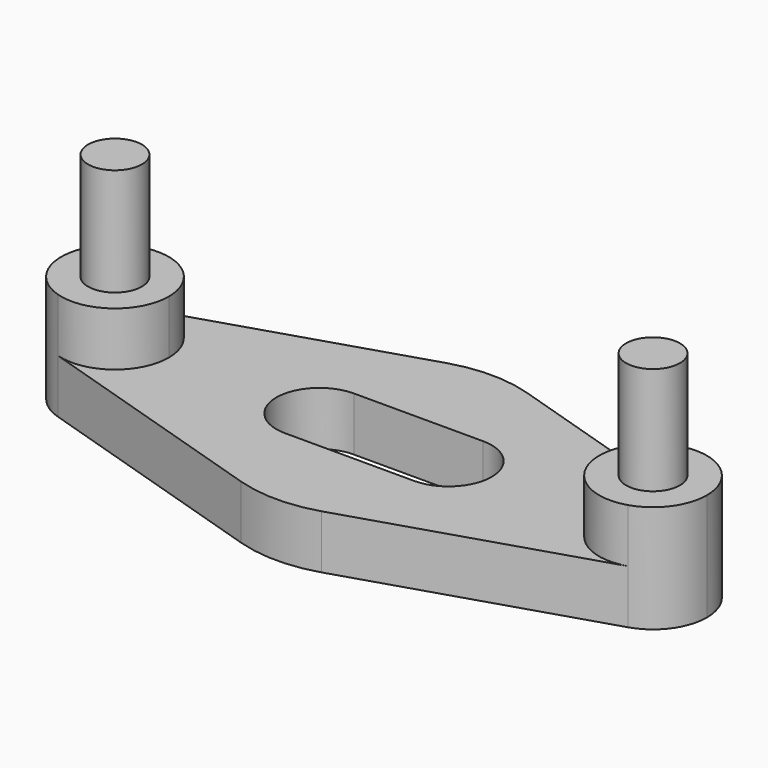
from build123d import *

# Parameters (mm, degrees)
F0_R     = 5
F1_DEPTH = 20
F2_DEPTH = 40
F3_DEPTH = 10


with BuildPart() as f1:
    # F0 (on Top) → F1 (new body)
    with BuildSketch(Plane.XY):
        with BuildLine():
            ThreePointArc((-53, 9.539392), (-60, 0), (-53, -9.539392))
            ThreePointArc((-53, -9.539392), (-44.08392, -8.062258), (-40, 0))
            ThreePointArc((-40, 0), (-44.08392, 8.062258), (-53, 9.539392))
        make_face()
        with Locations((-50, 0)):
            Circle(F0_R, mode=Mode.SUBTRACT)
        with BuildLine():
            ThreePointArc((53, 9.539392), (40, 0), (53, -9.539392))
            ThreePointArc((53, -9.539392), (58.062258, -5.91608), (60, 0))
            ThreePointArc((60, 0), (58.062258, 5.91608), (53, 9.539392))
        make_face()
        with Locations((50, 0)):
            Circle(F0_R, mode=Mode.SUBTRACT)
    extrude(amount=F1_DEPTH)


with BuildPart() as f2:
    # F0 (on Top) → F2 (new body)
    with BuildSketch(Plane.XY):
        with Locations((-50, 0)):
            Circle(F0_R)
        with Locations((50, 0)):
            Circle(F0_R)
    extrude(amount=F2_DEPTH)


with BuildPart() as f3:
    # F0 (on Top) → F3 (new body)
    with BuildSketch(Plane.XY):
        with BuildLine():
            Line((-53, -9.539392), (-7.5, -23.84848))
            ThreePointArc((-7.5, -23.84848), (0, -25), (7.5, -23.84848))
            Line((7.5, -23.84848), (53, -9.539392))
            ThreePointArc((53, -9.539392), (40, 0), (53, 9.539392))
            Line((53, 9.539392), (7.5, 23.84848))
            ThreePointArc((7.5, 23.84848), (0, 25), (-7.5, 23.84848))
            Line((-7.5, 23.84848), (-53, 9.539392))
            ThreePointArc((-53, 9.539392), (-44.08392, 8.062258), (-40, 0))
            ThreePointArc((-40, 0), (-44.08392, -8.062258), (-53, -9.539392))
        make_face()
        with BuildLine():
            ThreePointArc((-12, -8), (-20, 0), (-12, 8))
            Line((-12, 8), (12, 8))
            ThreePointArc((12, 8), (20, 0), (12, -8))
            Line((12, -8), (-12, -8))
        make_face(mode=Mode.SUBTRACT)
    extrude(amount=F3_DEPTH)


solid = Compound([f1.part, f2.part, f3.part])
